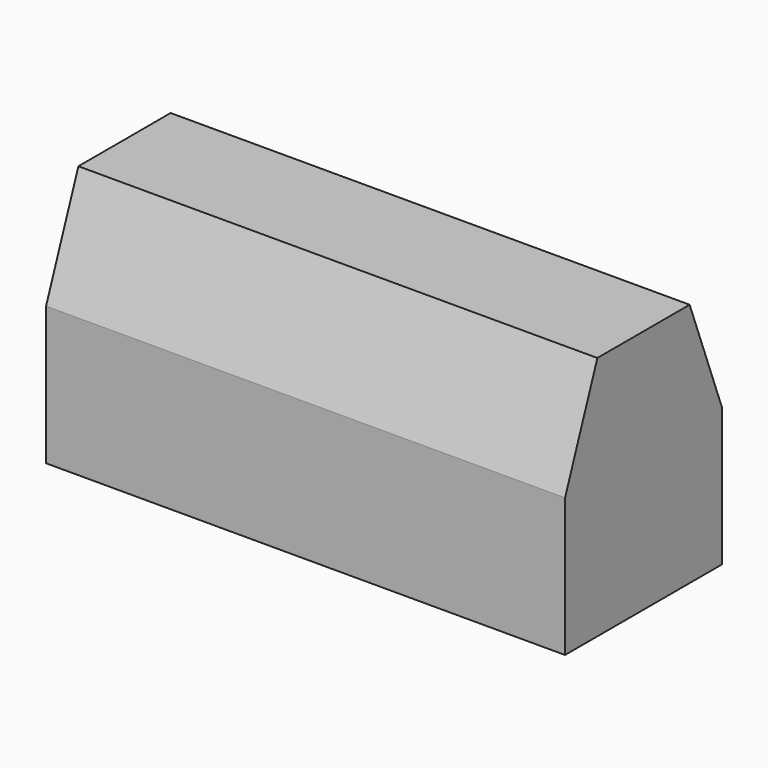
from build123d import *

# Parameters (mm, degrees)
SKETCH015_W      = 18
SKETCH015_H      = 6.8
PAD006_DEPTH     = 8.5
CHAMFER002_SIZE2 = 1.4
CHAMFER002_SIZE  = 3.7
CHAMFER003_SIZE2 = 3.7
CHAMFER003_SIZE  = 1.4


with BuildPart() as part:
    # Sketch015 → Pad006 (new body)
    with BuildSketch(Plane.XY):
        with Locations((38.3, 65.1)):
            Rectangle(SKETCH015_W, SKETCH015_H)
    extrude(amount=PAD006_DEPTH)

    # Chamfer002
    chamfer002_edges = [part.edges().sort_by_distance(p)[0] for p in [
        (38.3, 68.5, 8.5),
    ]]
    chamfer002_side = part.faces().sort_by_distance((38.3, 68.5, 4.25))[0]
    chamfer(chamfer002_edges, length=CHAMFER002_SIZE, length2=CHAMFER002_SIZE2, reference=chamfer002_side)

    # Chamfer003
    chamfer003_edges = [part.edges().sort_by_distance(p)[0] for p in [
        (38.3, 61.7, 8.5),
    ]]
    chamfer003_side = part.faces().sort_by_distance((38.3, 64.4, 8.5))[0]
    chamfer(chamfer003_edges, length=CHAMFER003_SIZE, length2=CHAMFER003_SIZE2, reference=chamfer003_side)


with BuildPart() as part_1:
    # Body026 placement: moved
    add(part.part.moved(Location((-26.7, 0, 0))))


solid = part_1.part
